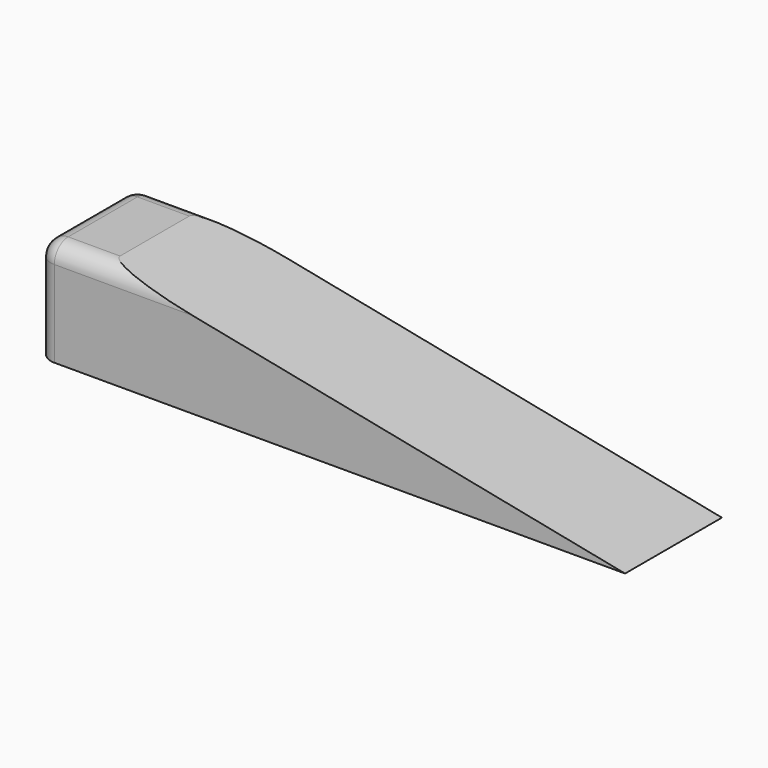
from build123d import *

# Parameters (mm, degrees)
F0_W     = 20
F0_H     = 30
F1_DEPTH = 17.5
F2_R     = 5


with BuildPart() as f1:
    # F0 (on Front) → F1 (new body, symmetric)
    with BuildSketch(Plane.XZ):
        Rectangle(F0_W, F0_H)
        Polygon((160, -15), (10, 15), (10, -15), align=None)
    extrude(amount=F1_DEPTH, both=True)

    # F2
    f2_edges = [f1.edges().sort_by_distance(p)[0] for p in [
        (-10, 0, 15),
        (-10, -17.5, 0),
        (-10, 17.5, 0),
        (0, -17.5, 15),
        (0, 17.5, 15),
    ]]
    fillet(f2_edges, radius=F2_R)


solid = f1.part
